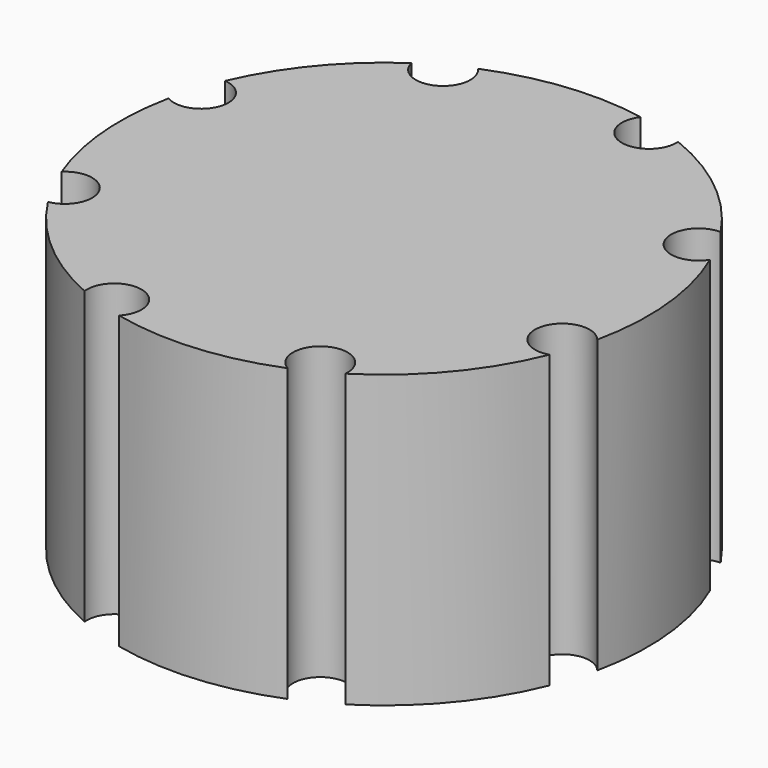
from build123d import *

# Parameters (mm, degrees)
CYLINDER_R        = 1.5
CYLINDER_DEPTH    = 18
ARRAY_COUNT       = 8
CYLINDER001_R     = 14.5
CYLINDER001_DEPTH = 16


with BuildPart() as array:
    # Cylinder → Cylinder (new body)
    with BuildSketch(Plane.XY):
        Circle(CYLINDER_R)
    extrude(amount=CYLINDER_DEPTH)

    # Array: Array ×8 about axis
    array_axis = Axis((-13.22, 4.12, 0), (0, 0, 1))


with BuildPart() as array_1:
    add(array.part)
    for i in range(1, ARRAY_COUNT):
        add(array.part.rotate(array_axis, i * 360 / ARRAY_COUNT))


with BuildPart() as cut:
    # Cylinder001 → Cylinder001 (new body)
    with BuildSketch(Plane(origin=(-13, 4, 0), x_dir=(1, 0, 0), z_dir=(0, 0, 1))):
        Circle(CYLINDER001_R)
    extrude(amount=CYLINDER001_DEPTH)

    # Cut: cut Array
    add(array_1.part, mode=Mode.SUBTRACT)


solid = cut.part
